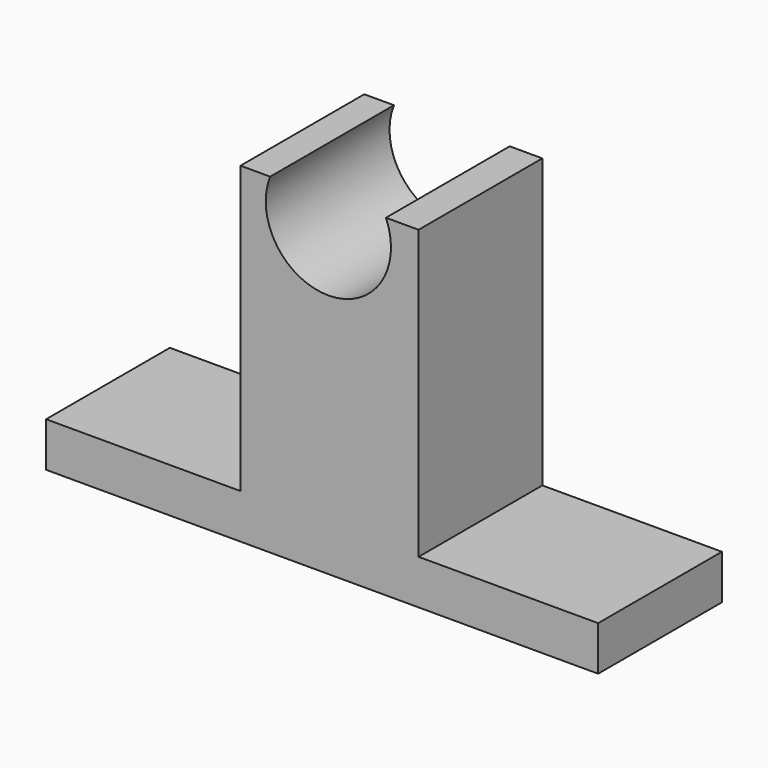
from build123d import *

# Parameters (mm, degrees)
F1_DEPTH = 30


with BuildPart() as f1:
    # F0 (on Front) → F1 (new body)
    with BuildSketch(Plane.XZ):
        with BuildLine():
            Line((-19.714694, 23.456169), (-19.714694, -32.090344))
            Line((-19.714694, -32.090344), (-57.417247, -32.090344))
            Line((-57.417247, -32.090344), (-57.417247, -40.724512))
            Line((-57.417247, -40.724512), (49.646493, -40.724512))
            Line((49.646493, -40.724512), (49.646493, -32.090344))
            Line((49.646493, -32.090344), (14.821998, -32.090344))
            Line((14.821998, -32.090344), (14.821998, 23.743974))
            Line((14.821998, 23.743974), (8.49027, 23.743974))
            ThreePointArc((8.49027, 23.743974), (-2.519324, 6.843165), (-13.95858, 23.456169))
            Line((-13.95858, 23.456169), (-19.714694, 23.456169))
        make_face()
    extrude(amount=F1_DEPTH)


solid = f1.part
